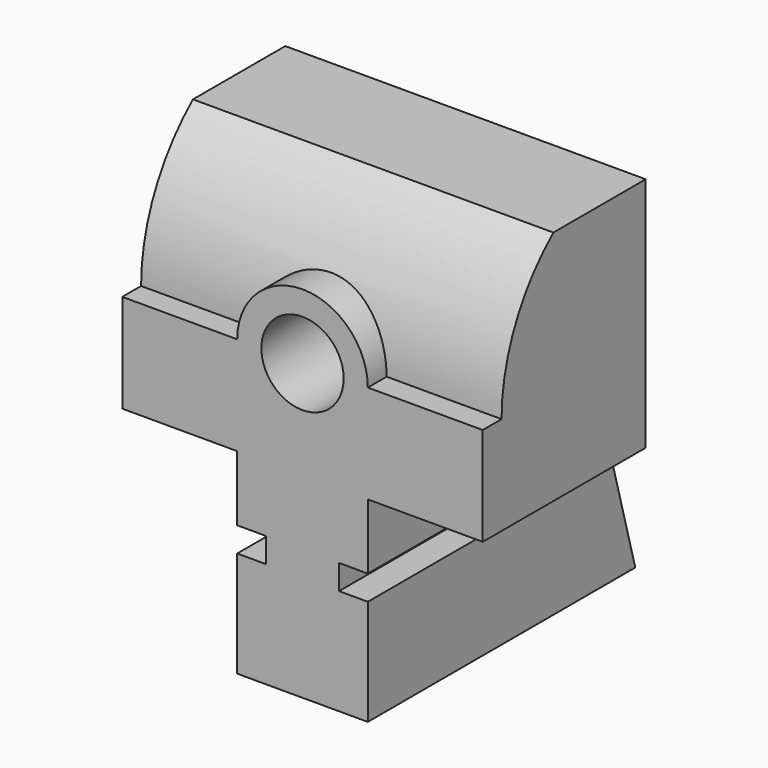
from build123d import *

# Parameters (mm, degrees)
F0_W      = 65.024
F0_H      = 84.074
F1_DEPTH  = 35.052
F2_W      = 5.588
F2_H      = 4.826
F3_DEPTH  = 127
F4_W      = 62.676213
F4_H      = 69.311896
F5_DEPTH  = 127
F7_DEPTH  = 127
F9_DEPTH  = 127
F11_DEPTH = 25.4
F12_R     = 8.001
F13_DEPTH = 65.025


with BuildPart() as f1:
    # F0 (on Right) → F1 (new body, symmetric)
    with BuildSketch(Plane.YZ):
        Rectangle(F0_W, F0_H)
    extrude(amount=F1_DEPTH, both=True)

    # F2 (on Front) → F3 (cut, symmetric)
    with BuildSketch(Plane.XZ):
        Polygon((-44.45, -3.937), (-44.45, -71.304262), (-12.7, -71.304262), (-12.7, -21.463), (-12.7, -16.637), (-12.7, -3.937), align=None)
        with Locations((-9.906, -19.05)):
            Rectangle(F2_W, F2_H)
        Polygon((44.45, -3.937), (12.7, -3.937), (12.7, -16.637), (12.7, -21.463), (12.7, -71.188014), (44.45, -71.188014), align=None)
        with Locations((9.906, -19.05)):
            Rectangle(F2_W, F2_H)
    extrude(amount=F3_DEPTH, both=True, mode=Mode.SUBTRACT)

    # F4 (on Right) → F5 (cut, symmetric)
    with BuildSketch(Plane.YZ):
        with Locations((38.450106, 27.670948)):
            Rectangle(F4_W, F4_H)
    extrude(amount=F5_DEPTH, both=True, mode=Mode.SUBTRACT)

    # F6 (on face) → F7 (cut, symmetric)
    with BuildSketch(Plane.YZ.offset(12.7)):
        Polygon((22.86, -6.985026), (32.512, -42.037), (51.482223, -29.319761), (47.049891, -1.715869), align=None)
    extrude(amount=F7_DEPTH, both=True, mode=Mode.SUBTRACT)

    # F8 (on Right) → F9 (cut, symmetric)
    with BuildSketch(Plane.YZ):
        with BuildLine():
            ThreePointArc((-27.939862, 15.211211), (-17.712772, 39.85918), (6.902644, 50.164375))
            Line((6.902644, 50.164375), (-42.650253, 55.479672))
            Line((-42.650253, 55.479672), (-50.782111, 15.211211))
            Line((-50.782111, 15.211211), (-27.939862, 15.211211))
        make_face()
    extrude(amount=F9_DEPTH, both=True, mode=Mode.SUBTRACT)

    # F10 (on face) → F11 (join)
    with BuildSketch(Plane.XZ.offset(32.512)):
        with BuildLine():
            Line((-12.7, 15.211211), (12.7, 15.211211))
            ThreePointArc((12.7, 15.211211), (0, 27.911211), (-12.7, 15.211211))
        make_face()
        with BuildLine():
            ThreePointArc((-12.7, 15.211211), (0, 2.511211), (12.7, 15.211211))
            Line((12.7, 15.211211), (-12.7, 15.211211))
        make_face()
    extrude(amount=-F11_DEPTH)

    # F12 (on face) → F13 (cut, through all)
    with BuildSketch(Plane.XZ.offset(32.512)):
        with Locations((0, 15.211211)):
            Circle(F12_R)
    extrude(amount=-F13_DEPTH, mode=Mode.SUBTRACT)


solid = f1.part
